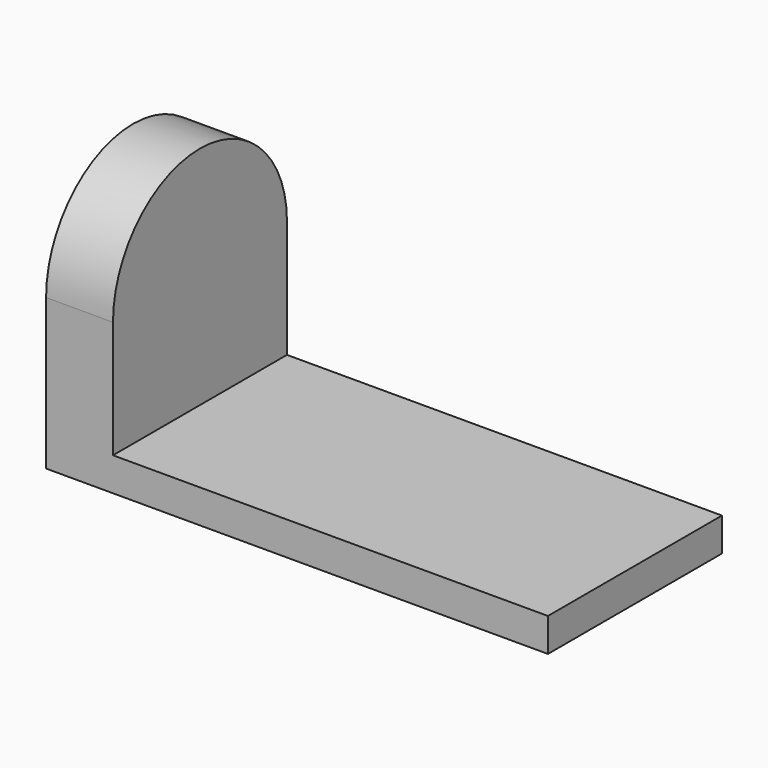
from build123d import *

# Parameters (mm, degrees)
F1_DEPTH = 82.55
F3_DEPTH = 190.501


with BuildPart() as f1:
    # F0 (on Front) → F1 (new body)
    with BuildSketch(Plane.XZ):
        Polygon((0, 156.757593), (0, 0), (190.5, 0), (190.5, 12.7), (25.4, 12.7), (25.4, 156.757593), align=None)
    extrude(amount=F1_DEPTH)

    # F2 (on face) → F3 (cut, through all)
    with BuildSketch(Plane(origin=(0, 0, 0), x_dir=(0, -1, 0), z_dir=(-1, 0, 0))):
        with BuildLine():
            ThreePointArc((0, 57.15), (41.275, 98.425), (82.55, 57.15))
            Line((82.55, 57.15), (82.55, 156.757593))
            Line((82.55, 156.757593), (0, 156.757593))
            Line((0, 156.757593), (0, 57.15))
        make_face()
    extrude(amount=-F3_DEPTH, mode=Mode.SUBTRACT)


solid = f1.part
